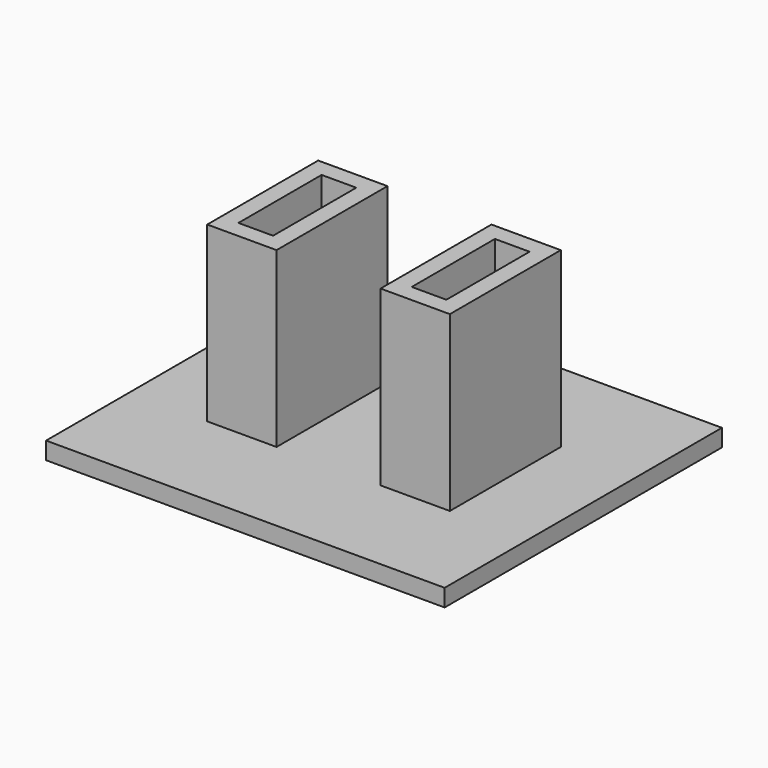
from build123d import *

# Parameters (mm, degrees)
F0_W     = 29.21
F0_H     = 25.4
F1_DEPTH = 1.27
F2_DEPTH = 12.7


with BuildPart() as f1:
    # F0 (on Top) → F1 (new body)
    with BuildSketch(Plane.XY):
        Rectangle(F0_W, F0_H)
        Polygon((6.35, -5.08), (6.35, -7.783156), (0, -7.783156), (-6.35, -7.783156), (-6.35, -5.08), (-8.89, -5.08), (-8.89, 5.08), (-6.35, 5.08), (-6.35, 7.783156), (0, 7.783156), (6.35, 7.783156), (6.35, 5.08), (8.89, 5.08), (8.89, -5.08), align=None, mode=Mode.SUBTRACT)
        Polygon((-6.35, -7.783156), (0, -7.783156), (0, 7.783156), (-6.35, 7.783156), (-6.35, 5.08), (-3.81, 5.08), (-3.81, -5.08), (-6.35, -5.08), align=None)
        Polygon((0, -7.783156), (6.35, -7.783156), (6.35, -5.08), (3.81, -5.08), (3.81, 5.08), (6.35, 5.08), (6.35, 7.783156), (0, 7.783156), align=None)
        Polygon((-8.89, -5.08), (-6.35, -5.08), (-6.35, -3.81), (-7.62, -3.81), (-7.62, 3.81), (-6.35, 3.81), (-6.35, 5.08), (-8.89, 5.08), align=None)
        Polygon((-6.35, -3.81), (-6.35, -5.08), (-3.81, -5.08), (-3.81, 5.08), (-6.35, 5.08), (-6.35, 3.81), (-5.08, 3.81), (-5.08, -3.81), align=None)
        Polygon((3.81, -5.08), (6.35, -5.08), (6.35, -3.81), (5.08, -3.81), (5.08, 3.81), (6.35, 3.81), (6.35, 5.08), (3.81, 5.08), align=None)
        Polygon((6.35, -3.81), (6.35, -5.08), (8.89, -5.08), (8.89, 5.08), (6.35, 5.08), (6.35, 3.81), (7.62, 3.81), (7.62, -3.81), align=None)
    extrude(amount=-F1_DEPTH)

    # F0 (on Top) → F2 (join)
    with BuildSketch(Plane.XY):
        Polygon((6.35, -3.81), (6.35, -5.08), (8.89, -5.08), (8.89, 5.08), (6.35, 5.08), (6.35, 3.81), (7.62, 3.81), (7.62, -3.81), align=None)
        Polygon((3.81, -5.08), (6.35, -5.08), (6.35, -3.81), (5.08, -3.81), (5.08, 3.81), (6.35, 3.81), (6.35, 5.08), (3.81, 5.08), align=None)
        Polygon((-6.35, -3.81), (-6.35, -5.08), (-3.81, -5.08), (-3.81, 5.08), (-6.35, 5.08), (-6.35, 3.81), (-5.08, 3.81), (-5.08, -3.81), align=None)
        Polygon((-8.89, -5.08), (-6.35, -5.08), (-6.35, -3.81), (-7.62, -3.81), (-7.62, 3.81), (-6.35, 3.81), (-6.35, 5.08), (-8.89, 5.08), align=None)
    extrude(amount=F2_DEPTH)


solid = f1.part
